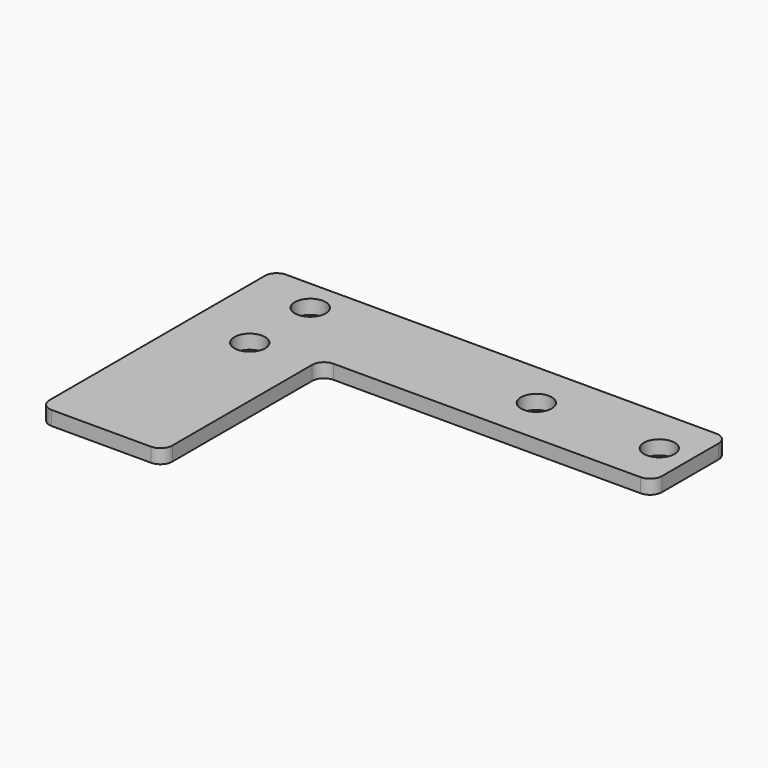
from build123d import *

# Parameters (mm, degrees)
F0_R     = 3.25
F1_DEPTH = 3


with BuildPart() as f1:
    # F0 (on Top) → F1 (new body)
    with BuildSketch(Plane.XY):
        with BuildLine():
            Line((80.5, 10), (13, 10))
            Line((13, 10), (-10.5, 10))
            ThreePointArc((-10.5, 10), (-12.267767, 9.267767), (-13, 7.5))
            Line((-13, 7.5), (-13, -49.5))
            ThreePointArc((-13, -49.5), (-12.267767, -51.267767), (-10.5, -52))
            Line((-10.5, -52), (10.5, -52))
            ThreePointArc((10.5, -52), (12.267767, -51.267767), (13, -49.5))
            Line((13, -49.5), (13, -12.5))
            ThreePointArc((13, -12.5), (13.732233, -10.732233), (15.5, -10))
            Line((15.5, -10), (80.5, -10))
            ThreePointArc((80.5, -10), (82.267767, -9.267767), (83, -7.5))
            Line((83, -7.5), (83, 7.5))
            ThreePointArc((83, 7.5), (82.267767, 9.267767), (80.5, 10))
        make_face()
        with Locations((0, -12.75)):
            Circle(F0_R, mode=Mode.SUBTRACT)
        with Locations((0, 3.25)):
            Circle(F0_R, mode=Mode.SUBTRACT)
        with Locations((50.435357, 0)):
            Circle(F0_R, mode=Mode.SUBTRACT)
        with Locations((76.45, 0)):
            Circle(F0_R, mode=Mode.SUBTRACT)
    extrude(amount=F1_DEPTH)


solid = f1.part
